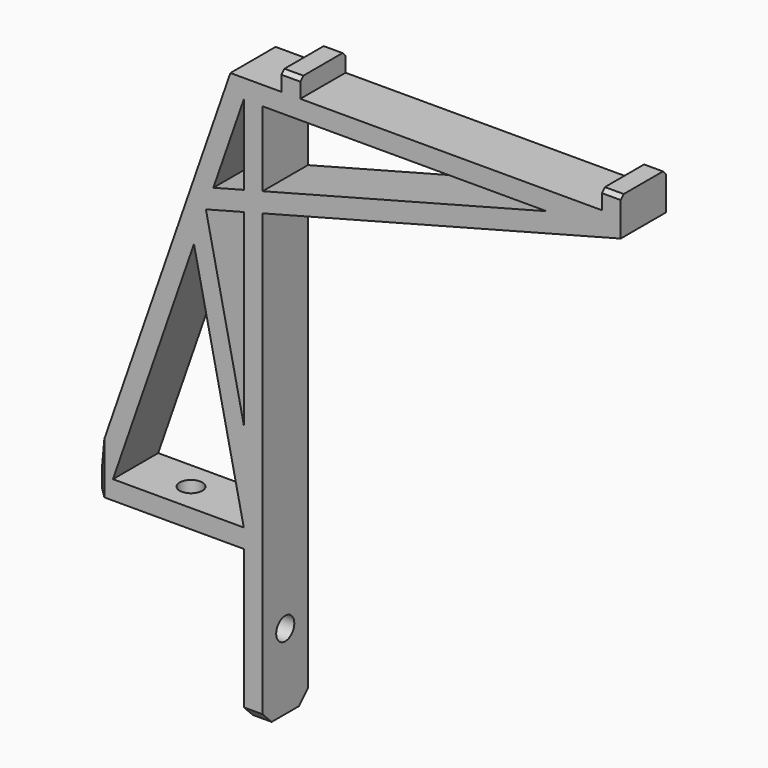
from build123d import *

# Parameters (mm, degrees)
PAD_DEPTH       = 15
SKETCH001_R     = 3
POCKET_DEPTH    = 5
SKETCH002_R     = 3
POCKET001_DEPTH = 5
CHAMFER_SIZE    = 1
CHAMFER001_SIZE = 3


with BuildPart() as part:
    # Sketch → Pad (new body)
    with BuildSketch(Plane.XZ):
        Polygon((40, 0), (40, 40), (0, 40), (0, 45), (36.44278, 150), (50, 150), (50, 155), (55, 155), (55, 150), (135, 150), (135, 155), (140, 155), (140, 145), (45, 120), (45, 0), align=None)
        Polygon((45, 145), (45, 125.170232), (120.353117, 145), align=None, mode=Mode.SUBTRACT)
        Polygon((40, 45), (26.782752, 106.918082), (5.29259, 45), align=None, mode=Mode.SUBTRACT)
        Polygon((40, 68.950927), (29.948406, 116.039054), (40, 118.684211), align=None, mode=Mode.SUBTRACT)
        Polygon((40, 123.854443), (31.923231, 121.728977), (40, 145), align=None, mode=Mode.SUBTRACT)
    extrude(amount=PAD_DEPTH)

    # Sketch001 (on Face2 of Pad) → Pocket (cut)
    with BuildSketch(Plane(origin=(0, 0, 40), x_dir=(1, 0, 0), z_dir=(0, 0, -1))):
        with Locations((20, 7.5)):
            Circle(SKETCH001_R)
    extrude(amount=-POCKET_DEPTH, mode=Mode.SUBTRACT)

    # Sketch002 (on Face1 of Pocket) → Pocket001 (cut)
    with BuildSketch(Plane(origin=(40, 0, 0), x_dir=(0, 0, -1), z_dir=(-1, 0, 0))):
        with Locations((-20, 7.5)):
            Circle(SKETCH002_R)
    extrude(amount=-POCKET001_DEPTH, mode=Mode.SUBTRACT)

    # Chamfer
    chamfer_edges = [part.edges().sort_by_distance(p)[0] for p in [
        (137.5, -15, 155),
        (137.5, 0, 155),
        (52.5, -15, 155),
        (52.5, 0, 155),
    ]]
    chamfer(chamfer_edges, length=CHAMFER_SIZE)

    # Chamfer001
    chamfer001_edges = [part.edges().sort_by_distance(p)[0] for p in [
        (42.5, -15, 0),
        (42.5, 0, 0),
        (0, -15, 42.5),
        (0, 0, 42.5),
    ]]
    chamfer(chamfer001_edges, length=CHAMFER001_SIZE)


solid = part.part
